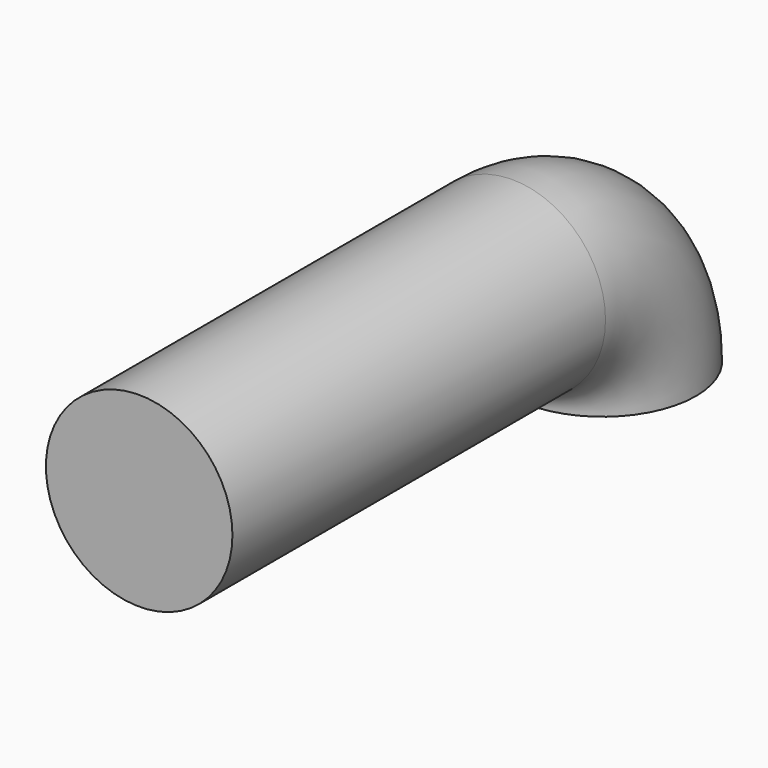
from build123d import *

# Parameters (mm, degrees)
F0_R     = 5
F2_ANGLE = 90
F4_DEPTH = 25


with BuildPart() as f2:
    # F0 (on Top) → F2 (revolve)
    with BuildSketch(Plane.XY):
        Circle(F0_R)
    revolve(axis=Axis((-0.0764658804, -6.061101798, 0), (1, 0, 0)), revolution_arc=F2_ANGLE)

    # F4 (add): a face of the model
    f4_faces = [f2.faces().sort_by_distance(p)[0] for p in [
        (0, -6.061101798, 6.061101798),
    ]]
    extrude(f4_faces, amount=F4_DEPTH)


solid = f2.part
